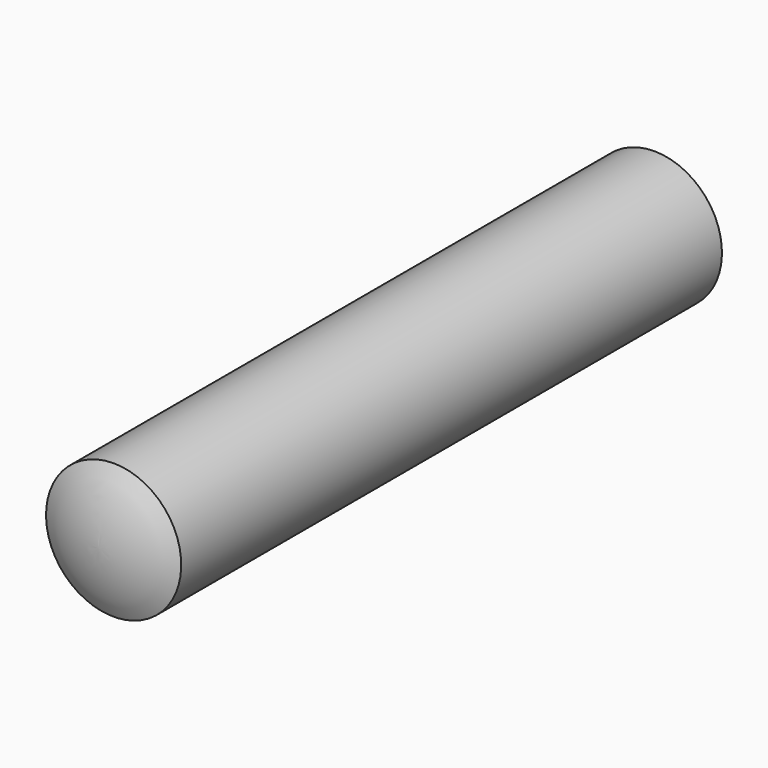
from build123d import *


with BuildPart() as part:
    # Sketch → Revolution (revolve)
    with BuildSketch(Plane.YZ):
        with BuildLine():
            ThreePointArc((10.267949, 0), (10.199801, 0.517638), (10, 1))
            Line((0, 1), (10, 1))
            ThreePointArc((0, 1), (-0.199801, 0.517638), (-0.267949, 0))
            Line((-0.267949, 0), (10.267949, 0))
        make_face()
    revolve(axis=Axis((0, 0, 0), (0, 1, 0)))


solid = part.part
